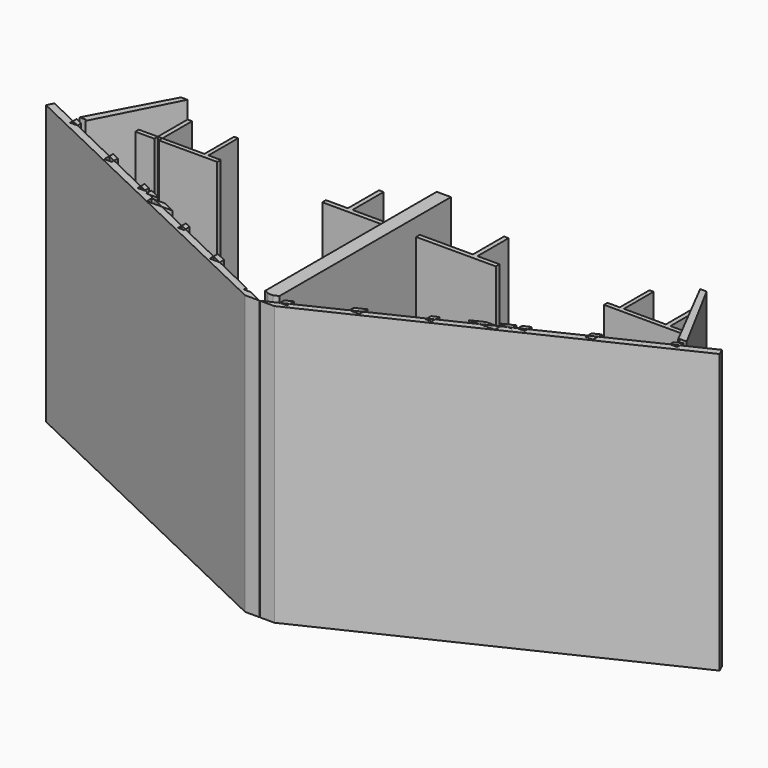
from build123d import *

# Parameters (mm, degrees)
F1_DEPTH = 4064
F2_DEPTH = 4064
F0_W     = 59.5169067383
F0_H     = 541.5135305497
F3_DEPTH = 3810
F0_W_2   = 277.9643576491
F0_H_2   = 63.521178427
F0_W_3   = 66.2975651105
F0_W_4   = 66.9565200806
F0_H_3   = 567.8366422653
F4_DEPTH = 127
F0_W_5   = 900
F0_H_4   = 1900
F0_W_6   = 276.364163372
F0_H_5   = 85.8635625489
F5_DEPTH = 50.8
F0_W_7   = 421.6983612932
F0_H_6   = 1206.2521257751
F6_DEPTH = 76.2
F0_W_8   = 612.8193992297
F0_W_9   = 773.7193927169


with BuildPart() as f1:
    # F0 (on Top) → F1 (new body)
    with BuildSketch(Plane.XY):
        Polygon((-4017.2446778875, -541.5135305498), (-3739.2803202383, 0), (-3833.7243567221, 0), (-4427.8527467492, -1105.8727394146), (-4320.6527595298, -1105.8727394146), (-4320.6527595298, -1132.5950018471), align=None)
    extrude(amount=F1_DEPTH)



with BuildPart() as f1b:
    # F0 (on Top) → F1, piece 2 (new body)
    with BuildSketch(Plane.XY):
        Polygon((-1850.4004250281, -2466.7582425606), (-2317.8460123625, -2241.7488098145), (-2539.3906603567, -2241.7488098145), (-2539.3906603567, -2155.8852472656), (-2496.2231716506, -2155.8852472656), (-2615.9710052476, -2098.2434749603), (-2664.0718947165, -2098.2434749603), (-2664.0718947165, -2075.0896488312), (-2722.1911917441, -2047.1133657939), (-2722.1911917441, -2054.6538829803), (-2823.9000807516, -2054.6538829803), (-2823.9000807516, -1998.1548130962), (-3455.948210787, -1693.9123620796), (-3455.948210787, -1734.9972724915), (-3564.9219523184, -1734.9972724915), (-3564.9219523184, -1641.4568026934), (-4320.6527595298, -1277.6785045409), (-4427.8527467492, -1277.6785045409), (-4427.8527467492, -1226.0767588657), (-4867.9884443991, -1014.2132043838), (-4912.6261244528, -1110.9281778336), (-215.7927225342, -3355.0751209258), (-4.9675474875, -3355.0751209259), (-215.7927225342, -3253.5923936711), (-317.8846821116, -3253.5923936711), (-317.8846821116, -3204.4494462674), (-947.8856273576, -2901.1924273539), (-1095.0394922864, -2901.1924273539), (-1095.0394922864, -2830.358498077), (-1763.2213602774, -2508.722724499), (-1763.2213602774, -2534.138917923), (-1850.4004250281, -2534.138917923), align=None)
    extrude(amount=F1_DEPTH)


with BuildPart() as f1c:
    # F0 (on Top) → F1, piece 3 (new body)
    with BuildSketch(Plane.XY):
        Polygon((2534.4231128693, -2241.7488098145), (2312.8784648751, -2241.7488098145), (1845.4328775406, -2466.7582425606), (1845.4328775406, -2534.138917923), (1758.2538127899, -2534.138917923), (1758.2538127899, -2508.722724499), (1090.0719447989, -2830.358498077), (1090.0719447989, -2901.1924273539), (942.9180798701, -2901.1924273539), (312.9171346241, -3204.4494462675), (312.9171346241, -3253.5923936711), (210.8251750468, -3253.5923936711), (0, -3355.0751209258), (210.8251750468, -3355.0751209259), (4907.6585769653, -1110.9281778336), (4863.0208969117, -1014.2132043838), (4422.8851992618, -1226.0767588657), (4422.8851992618, -1277.6785045409), (4315.6852120423, -1277.6785045409), (3559.9544048309, -1641.4568026935), (3559.9544048309, -1734.9972724915), (3450.9806632996, -1734.9972724915), (3450.9806632996, -1693.9123620796), (2818.9325332642, -1998.1548130962), (2818.9325332642, -2054.6538829803), (2717.2236442566, -2054.6538829803), (2717.2236442566, -2047.1133657939), (2659.104347229, -2075.0896488312), (2659.104347229, -2098.2434749603), (2611.0034577601, -2098.2434749603), (2491.2556241632, -2155.8852472656), (2534.4231128693, -2155.8852472656), align=None)
    extrude(amount=F1_DEPTH)


with BuildPart() as f1d:
    # F0 (on Top) → F1, piece 4 (new body)
    with BuildSketch(Plane.XY):
        Polygon((3828.7568092346, 0), (3734.3127727509, 0), (4012.2771304, -541.5135305497), (4315.6852120423, -1132.595001847), (4315.6852120423, -1105.8727394146), (4422.8851992618, -1105.8727394146), align=None)
    extrude(amount=F1_DEPTH)

    # F0 (on Top) → F3, piece 4 (join)
    with BuildSketch(Plane.XY):
        with Locations((3025.4373550415, -270.7567652749)):
            Rectangle(F0_W, F0_H)
        Polygon((3055.1958084106, -541.5135305497), (2995.6789016724, -541.5135305497), (2817.1281814575, -541.5135305497), (2817.1281814575, -605.0347089767), (3668.0152076403, -605.0347089767), (3668.0152076403, -541.5135305497), align=None)
        with Locations((3873.2949515754, -573.2741197632)):
            Rectangle(F0_W_2, F0_H_2)
        with Locations((3701.1639901956, -573.2741197632)):
            Rectangle(F0_W_3, F0_H_2)
        with Locations((3701.1639901956, -270.7567652749)):
            Rectangle(F0_W_3, F0_H)
    extrude(amount=F3_DEPTH)


with BuildPart() as f1e:
    # F0 (on Top) → F1, piece 5 (new body)
    with BuildSketch(Plane.XY):
        Polygon((-2.4837737437, -3156.8207740784), (-2.4837737437, 0), (-4.9675474875, 0), (-106.6383267753, 0), (-106.6383267753, -567.8366422653), (-106.6383267753, -634.7931027412), (-106.6383267753, -2155.8852472656), (-106.6383267753, -2241.7488098145), (-106.6383267753, -3124.3838306734), (-37.7133525912, -3156.8207740784), align=None)
        Polygon((101.6707792878, 0), (0, 0), (-2.4837737437, 0), (-2.4837737437, -3156.8207740784), (32.7458051037, -3156.8207740784), (101.6707792878, -3124.3838306734), (101.6707792878, -2241.7488098145), (101.6707792878, -2155.8852472656), (101.6707792878, -634.7931027412), (101.6707792878, -567.8366422653), align=None)
    extrude(amount=F1_DEPTH)

    # F0 (on Top) → F3, piece 3 (join)
    with BuildSketch(Plane.XY):
        Polygon((-106.6383267753, -634.7931027412), (-106.6383267753, -567.8366422653), (-880.3577194922, -567.8366422653), (-947.3142395727, -567.8366422653), (-1267.2173748724, -567.8366422653), (-1267.2173748724, -634.7931027412), align=None)
        Polygon((875.3901720047, -567.8366422653), (101.6707792878, -567.8366422653), (101.6707792878, -634.7931027412), (1262.2498273849, -634.7931027412), (1262.2498273849, -567.8366422653), (942.3466920853, -567.8366422653), align=None)
        with Locations((908.868432045, -283.9183211327)):
            Rectangle(F0_W_4, F0_H_3)
        with Locations((-913.8359795325, -283.9183211327)):
            Rectangle(F0_W_4, F0_H_3)
    extrude(amount=F3_DEPTH)


with BuildPart() as f2:
    # F0 (on Top) → F2 (new body)
    with BuildSketch(Plane.XY):
        Polygon((312.9171346241, -3124.728049525), (210.8251750467, -3173.5407701096), (210.8251750467, -3253.5923936711), (312.9171346241, -3204.4494462675), align=None)
    extrude(amount=F2_DEPTH)


with BuildPart() as f2b:
    # F0 (on Top) → F2, piece 2 (new body)
    with BuildSketch(Plane.XY):
        Polygon((1090.0719447989, -2753.1508875518), (942.9180798701, -2823.5088326971), (942.9180798701, -2901.1924273539), (1090.0719447989, -2830.358498077), align=None)
    extrude(amount=F2_DEPTH)


with BuildPart() as f2c:
    # F0 (on Top) → F2, piece 3 (new body)
    with BuildSketch(Plane.XY):
        Polygon((1845.4328775406, -2466.7582425606), (1845.4328775406, -2391.9939237413), (1758.2538127899, -2433.6764161346), (1758.2538127899, -2508.722724499), align=None)
    extrude(amount=F2_DEPTH)


with BuildPart() as f2d:
    # F0 (on Top) → F2, piece 4 (new body)
    with BuildSketch(Plane.XY):
        Polygon((2339.2549215885, -2155.8852472656), (2159.6710087903, -2241.7488098145), (2312.8784648751, -2241.7488098145), (2491.2556241632, -2155.8852472656), align=None)
    extrude(amount=F2_DEPTH)


with BuildPart() as f2e:
    # F0 (on Top) → F2, piece 5 (new body)
    with BuildSketch(Plane.XY):
        Polygon((2818.9325332642, -1926.539377852), (2717.2236442566, -1975.1689428114), (2717.2236442566, -2047.1133657939), (2818.9325332642, -1998.1548130962), align=None)
    extrude(amount=F2_DEPTH)


with BuildPart() as f2f:
    # F0 (on Top) → F2, piece 6 (new body)
    with BuildSketch(Plane.XY):
        Polygon((3559.9544048309, -1572.2382780044), (3450.9806632996, -1624.3413507483), (3450.9806632996, -1693.9123620796), (3559.9544048309, -1641.4568026935), align=None)
    extrude(amount=F2_DEPTH)


with BuildPart() as f2g:
    # F0 (on Top) → F2, piece 7 (new body)
    with BuildSketch(Plane.XY):
        Polygon((4422.8851992618, -1159.6494715326), (4315.6852120423, -1210.9044679543), (4315.6852120423, -1277.6785045409), (4422.8851992618, -1226.0767588657), align=None)
    extrude(amount=F2_DEPTH)


with BuildPart() as f2h:
    # F0 (on Top) → F2, piece 8 (new body)
    with BuildSketch(Plane.XY):
        Polygon((-947.8856273576, -2901.1924273539), (-947.8856273576, -2823.5088326971), (-1095.0394922864, -2753.1508875518), (-1095.0394922864, -2830.358498077), align=None)
    extrude(amount=F2_DEPTH)


with BuildPart() as f2i:
    # F0 (on Top) → F2, piece 9 (new body)
    with BuildSketch(Plane.XY):
        Polygon((-1763.2213602774, -2433.6764161346), (-1850.4004250281, -2391.9939237413), (-1850.4004250281, -2466.7582425606), (-1763.2213602774, -2508.722724499), align=None)
    extrude(amount=F2_DEPTH)


with BuildPart() as f2j:
    # F0 (on Top) → F2, piece 10 (new body)
    with BuildSketch(Plane.XY):
        Polygon((-2317.8460123625, -2241.7488098145), (-2164.6385562777, -2241.7488098145), (-2344.222469076, -2155.8852472656), (-2496.2231716506, -2155.8852472656), align=None)
    extrude(amount=F2_DEPTH)


with BuildPart() as f2k:
    # F0 (on Top) → F2, piece 11 (new body)
    with BuildSketch(Plane.XY):
        Polygon((-2722.1911917441, -2047.1133657939), (-2722.1911917441, -1975.1689428114), (-2823.9000807516, -1926.539377852), (-2823.9000807516, -1998.1548130962), align=None)
    extrude(amount=F2_DEPTH)


with BuildPart() as f2l:
    # F0 (on Top) → F2, piece 12 (new body)
    with BuildSketch(Plane.XY):
        Polygon((-2489.7135267965, -2098.2434749603), (-2489.7135267965, -2086.3223318561), (-2664.0718947165, -2002.9572330756), (-2664.0718947165, -2075.0896488312), (-2615.9710052476, -2098.2434749603), align=None)
    extrude(amount=F2_DEPTH)


with BuildPart() as f2m:
    # F0 (on Top) → F2, piece 13 (new body)
    with BuildSketch(Plane.XY):
        Polygon((2659.104347229, -2002.9572330756), (2484.7459793091, -2086.3223318561), (2484.7459793091, -2098.2434749603), (2611.0034577601, -2098.2434749603), (2659.104347229, -2075.0896488312), align=None)
    extrude(amount=F2_DEPTH)


with BuildPart() as f2n:
    # F0 (on Top) → F2, piece 14 (new body)
    with BuildSketch(Plane.XY):
        Polygon((-3455.948210787, -1693.9123620796), (-3455.948210787, -1624.3413507483), (-3564.9219523184, -1572.2382780044), (-3564.9219523184, -1641.4568026934), align=None)
    extrude(amount=F2_DEPTH)


with BuildPart() as f2o:
    # F0 (on Top) → F2, piece 15 (new body)
    with BuildSketch(Plane.XY):
        Polygon((-4320.6527595298, -1277.6785045409), (-4320.6527595298, -1210.9044679543), (-4427.8527467492, -1159.6494715326), (-4427.8527467492, -1226.0767588657), align=None)
    extrude(amount=F2_DEPTH)


with BuildPart() as f3:
    # F0 (on Top) → F3 (new body)
    with BuildSketch(Plane.XY):
        Polygon((-2822.095728945, -541.5135305497), (-3000.6464491598, -541.5135305497), (-3060.1633558981, -541.5135305497), (-3672.9827551278, -541.5135305497), (-3672.9827551278, -605.0347089767), (-2822.095728945, -605.0347089767), align=None)
        with Locations((-3030.404902529, -270.7567652749)):
            Rectangle(F0_W, F0_H)
    extrude(amount=F3_DEPTH)


with BuildPart() as f1_1:
    add(f1.part)

    add(f3.part)  # F3#2 merges F3
    # F0 (on Top) → F3, piece 2 (join)
    with BuildSketch(Plane.XY):
        with Locations((-3878.2624990629, -573.2741197632)):
            Rectangle(F0_W_2, F0_H_2)
        with Locations((-3706.1315376831, -270.7567652749)):
            Rectangle(F0_W_3, F0_H)
    extrude(amount=F3_DEPTH)


with BuildPart() as f4:
    # F0 (on Top) → F4 (new body)
    with BuildSketch(Plane.XY):
        Polygon((2659.104347229, 0), (2484.7459793091, 0), (2484.7459793091, -2002.8792337131), (2659.104347229, -1920.8240341378), (2659.104347229, -1654.9284700991), (2659.104347229, -959.8524570465), align=None)
        Polygon((101.6707792878, -3156.8207740784), (32.7458051037, -3156.8207740784), (0, -3172.2313540528), (12.3954769224, -3268.4149742126), (210.8251750467, -3173.5407701096), (210.8251750467, -3124.728049525), (312.9171346241, -3124.728049525), (942.9180798701, -2823.5088326971), (942.9180798701, -2753.1508875518), (1090.0719447989, -2753.1508875518), (1758.2538127899, -2433.6764161346), (1758.2538127899, -2381.5755844116), (1845.4328775406, -2381.5755844116), (1845.4328775406, -2391.9939237413), (2159.6710087903, -2241.7488098145), (1977.1741295017, -2241.7488098145), (101.6707792878, -3124.3838306734), align=None)
        Polygon((2484.7459793091, -2002.8792337131), (2159.6248542248, -2155.8852472656), (2339.2549215885, -2155.8852472656), (2484.7459793091, -2086.3223318561), align=None)
        Polygon((3450.9806632996, -1548.1572678146), (2659.104347229, -1920.8240341378), (2659.104347229, -2002.9572330756), (2717.2236442566, -1975.1689428114), (2717.2236442566, -1909.3554019928), (2818.9325332642, -1909.3554019928), (2818.9325332642, -1926.539377852), (3450.9806632996, -1624.3413507483), align=None)
        Polygon((3668.0152076403, -1446.0181329794), (3486.20662726, -1531.5794944763), (3559.9544048309, -1531.5794944763), (3559.9544048309, -1572.2382780044), (4315.6852120423, -1210.9044679543), (4315.6852120423, -1141.2166364745), (3734.3127727509, -1414.8176807074), (3734.3127727509, -1446.0181329794), align=None)
        Polygon((2659.104347229, -1920.8240341378), (2484.7459793091, -2002.8792337131), (2484.7459793091, -2086.3223318561), (2659.104347229, -2002.9572330756), align=None)
        Polygon((3486.20662726, -1531.5794944763), (3450.9806632996, -1548.1572678146), (3450.9806632996, -1624.3413507483), (3559.9544048309, -1572.2382780044), (3559.9544048309, -1531.5794944763), align=None)
        Polygon((4773.7455368042, -991.894364357), (4422.8851992618, -1105.8727394146), (4422.8851992618, -1159.6494715326), align=None)
        Polygon((4315.6852120423, -1141.2166364745), (4315.6852120423, -1210.9044679543), (4422.8851992618, -1159.6494715326), (4422.8851992618, -1105.8727394146), (4319.2497084495, -1139.5391404784), align=None)
        Polygon((2159.6248542248, -2155.8852472656), (1977.1741295017, -2241.7488098145), (2159.6710087903, -2241.7488098145), (2339.2549215885, -2155.8852472656), align=None)
    extrude(amount=F4_DEPTH)


with BuildPart() as f4b:
    # F0 (on Top) → F4, piece 2 (new body)
    with BuildSketch(Plane.XY):
        with Locations((1828.6262075088, -950)):
            Rectangle(F0_W_5, F0_H_4)
    extrude(amount=F4_DEPTH)


with BuildPart() as f4c:
    # F0 (on Top) → F4, piece 3 (new body)
    with BuildSketch(Plane.XY):
        with Locations((239.8528609738, -2198.81702854)):
            Rectangle(F0_W_6, F0_H_5)
    extrude(amount=F4_DEPTH)


with BuildPart() as f4d:
    # F0 (on Top) → F4, piece 4 (new body)
    with BuildSketch(Plane.XY):
        Polygon((-2664.0718947165, -2002.9572330756), (-2664.0718947165, -1920.8240341378), (-3455.948210787, -1548.1572678146), (-3455.948210787, -1624.3413507483), (-2823.9000807516, -1926.539377852), (-2823.9000807516, -1909.3554019928), (-2722.1911917441, -1909.3554019928), (-2722.1911917441, -1975.1689428114), align=None)
        Polygon((-4.9675474875, -3172.2313540528), (-37.7133525912, -3156.8207740784), (-106.6383267753, -3156.8207740784), (-106.6383267753, -3124.3838306734), (-1982.1416769891, -2241.7488098145), (-2164.6385562777, -2241.7488098145), (-1850.4004250281, -2391.9939237413), (-1850.4004250281, -2381.5755844116), (-1763.2213602774, -2381.5755844116), (-1763.2213602774, -2433.6764161346), (-1095.0394922864, -2753.1508875518), (-947.8856273576, -2753.1508875518), (-947.8856273576, -2823.5088326971), (-317.8846821116, -3124.728049525), (-215.7927225342, -3124.728049525), (-215.7927225342, -3173.5407701096), (-17.3630244099, -3268.4149742126), align=None)
        Polygon((-2344.222469076, -2155.8852472656), (-2164.5924017122, -2155.8852472656), (-2489.7135267965, -2002.8792337131), (-2489.7135267965, -2086.3223318561), align=None)
        Polygon((-2489.7135267965, -2086.3223318561), (-2489.7135267965, -2002.8792337131), (-2664.0718947165, -1920.8240341378), (-2664.0718947165, -2002.9572330756), align=None)
        Polygon((-2823.9000807516, -1926.539377852), (-2722.1911917441, -1975.1689428114), (-2722.1911917441, -1909.3554019928), (-2823.9000807516, -1909.3554019928), align=None)
        Polygon((-2164.6385562777, -2241.7488098145), (-1982.1416769891, -2241.7488098145), (-2164.5924017122, -2155.8852472656), (-2344.222469076, -2155.8852472656), align=None)
        Polygon((-4427.8527467492, -1159.6494715326), (-4320.6527595298, -1210.9044679543), (-4320.6527595298, -1141.2166364745), (-4324.217255937, -1139.5391404784), (-4427.8527467492, -1105.8727394146), align=None)
        Polygon((-3564.9219523184, -1531.5794944763), (-3491.1741747474, -1531.5794944763), (-3672.9827551278, -1446.0181329794), (-3739.2803202383, -1446.0181329794), (-3739.2803202383, -1414.8176807074), (-4320.6527595298, -1141.2166364745), (-4320.6527595298, -1210.9044679543), (-3564.9219523184, -1572.2382780044), align=None)
        Polygon((-4778.7130842917, -991.894364357), (-4427.8527467492, -1159.6494715326), (-4427.8527467492, -1105.8727394146), align=None)
        Polygon((-3455.948210787, -1624.3413507483), (-3455.948210787, -1548.1572678146), (-3491.1741747474, -1531.5794944763), (-3564.9219523184, -1531.5794944763), (-3564.9219523184, -1572.2382780044), align=None)
        Polygon((-2664.0718947165, -1920.8240341378), (-2489.7135267965, -2002.8792337131), (-2489.7135267965, 0), (-2664.0718947165, 0), (-2664.0718947165, -959.8524570465), (-2664.0718947165, -1654.9284700991), align=None)
    extrude(amount=F4_DEPTH)


with BuildPart() as f4e:
    # F0 (on Top) → F4, piece 5 (new body)
    with BuildSketch(Plane.XY):
        with Locations((-1833.5937549962, -950)):
            Rectangle(F0_W_5, F0_H_4)
    extrude(amount=F4_DEPTH)


with BuildPart() as f4f:
    # F0 (on Top) → F4, piece 6 (new body)
    with BuildSketch(Plane.XY):
        Polygon((-3739.2803202383, -1414.8176807074), (-3672.9827551278, -1446.0181329794), (-3672.9827551278, -605.0347089767), (-3739.2803202383, -605.0347089767), align=None)
    extrude(amount=F4_DEPTH)


with BuildPart() as f4g:
    # F0 (on Top) → F4, piece 7 (new body)
    with BuildSketch(Plane.XY):
        Polygon((3668.0152076403, -605.0347089767), (3668.0152076403, -1446.0181329794), (3734.3127727509, -1414.8176807074), (3734.3127727509, -605.0347089767), align=None)
    extrude(amount=F4_DEPTH)


with BuildPart() as f4h:
    # F0 (on Top) → F4, piece 8 (new body)
    with BuildSketch(Plane.XY):
        with Locations((-244.8204084613, -2198.81702854)):
            Rectangle(F0_W_6, F0_H_5)
    extrude(amount=F4_DEPTH)


with BuildPart() as f4i:
    # F0 (on Top) → F4, piece 9 (new body)
    with BuildSketch(Plane.XY):
        Polygon((2491.2556241632, -2155.8852472656), (2312.8784648751, -2241.7488098145), (2534.4231128693, -2241.7488098145), (2534.4231128693, -2155.8852472656), align=None)
    extrude(amount=F4_DEPTH)


with BuildPart() as f4j:
    # F0 (on Top) → F4, piece 10 (new body)
    with BuildSketch(Plane.XY):
        Polygon((-2539.3906603567, -2241.7488098145), (-2317.8460123625, -2241.7488098145), (-2496.2231716506, -2155.8852472656), (-2539.3906603567, -2155.8852472656), align=None)
    extrude(amount=F4_DEPTH)


with BuildPart() as f5:
    # F0 (on Top) → F5 (new body)
    with BuildSketch(Plane.XY):
        Polygon((-3492.3832416534, -1256.2128305435), (-2664.0718947165, -1654.9284700991), (-2664.0718947165, -959.8524570465), (-3492.3832416534, -959.8524570465), align=None)
    extrude(amount=F5_DEPTH)


with BuildPart() as f5b:
    # F0 (on Top) → F5, piece 2 (new body)
    with BuildSketch(Plane.XY):
        with Locations((-593.8516707938, -1552.759184378)):
            Rectangle(F0_W_7, F0_H_6)
        with Locations((-593.8516707938, -2198.81702854)):
            Rectangle(F0_W_7, F0_H_5)
        Polygon((-383.0024901473, -2677.7754532338), (-383.0024901473, -2241.7488098145), (-804.7008514404, -2241.7488098145), (-804.7008514404, -2476.2879812667), align=None)
    extrude(amount=F5_DEPTH)


with BuildPart() as f5c:
    # F0 (on Top) → F5, piece 3 (new body)
    with BuildSketch(Plane.XY):
        Polygon((799.733303953, -2241.7488098145), (378.0349426598, -2241.7488098145), (378.0349426598, -2677.7754532338), (799.733303953, -2476.2879812667), align=None)
        with Locations((588.8841233064, -2198.81702854)):
            Rectangle(F0_W_7, F0_H_5)
        with Locations((588.8841233064, -1552.759184378)):
            Rectangle(F0_W_7, F0_H_6)
    extrude(amount=F5_DEPTH)


with BuildPart() as f5d:
    # F0 (on Top) → F5, piece 4 (new body)
    with BuildSketch(Plane.XY):
        Polygon((3487.415694166, -959.8524570465), (2659.104347229, -959.8524570465), (2659.104347229, -1654.9284700991), (3487.415694166, -1256.2128305435), align=None)
    extrude(amount=F5_DEPTH)


with BuildPart() as f6:
    # F0 (on Top) → F6 (new body)
    with BuildSketch(Plane.XY):
        Polygon((-4320.6527595298, -1141.2166364745), (-3739.2803202383, -1414.8176807074), (-3739.2803202383, -605.0347089767), (-4017.2446778875, -605.0347089767), (-4017.2446778875, -541.5135305497), (-4320.6527595298, -1132.5950018471), align=None)
    extrude(amount=F6_DEPTH)


with BuildPart() as f6b:
    # F0 (on Top) → F6, piece 2 (new body)
    with BuildSketch(Plane.XY):
        Polygon((-3739.2803202383, -541.5135305497), (-3739.2803202383, 0), (-4017.2446778875, -541.5135305498), align=None)
    extrude(amount=F6_DEPTH)


with BuildPart() as f6c:
    # F0 (on Top) → F6, piece 3 (new body)
    with BuildSketch(Plane.XY):
        with Locations((-3366.573055513, -270.7567652749)):
            Rectangle(F0_W_8, F0_H)
    extrude(amount=F6_DEPTH)


with BuildPart() as f6d:
    # F0 (on Top) → F6, piece 4 (new body)
    with BuildSketch(Plane.XY):
        Polygon((-3455.948210787, -1548.1572678146), (-2664.0718947165, -1920.8240341378), (-2664.0718947165, -1654.9284700991), (-3492.3832416534, -1256.2128305435), (-3492.3832416534, -959.8524570465), (-2664.0718947165, -959.8524570465), (-2664.0718947165, 0), (-3000.6464491598, 0), (-3000.6464491598, -541.5135305497), (-2822.095728945, -541.5135305497), (-2822.095728945, -605.0347089767), (-3672.9827551278, -605.0347089767), (-3672.9827551278, -1446.0181329794), (-3491.1741747474, -1531.5794944763), (-3455.948210787, -1531.5794944763), align=None)
    extrude(amount=F6_DEPTH)


with BuildPart() as f6e:
    # F0 (on Top) → F6, piece 5 (new body)
    with BuildSketch(Plane.XY):
        Polygon((-106.6383267753, -2155.8852472656), (-106.6383267753, -634.7931027412), (-1267.2173748724, -634.7931027412), (-1267.2173748724, -567.8366422653), (-947.3142395727, -567.8366422653), (-947.3142395727, 0), (-1383.5937549962, 0), (-1383.5937549962, -1900), (-2283.5937549962, -1900), (-2283.5937549962, 0), (-2489.7135267965, 0), (-2489.7135267965, -2002.8792337131), (-2164.5924017122, -2155.8852472656), (-804.7008514404, -2155.8852472656), (-804.7008514404, -949.6331214905), (-383.0024901473, -949.6331214905), (-383.0024901473, -2155.8852472656), align=None)
        Polygon((-106.6383267753, -2155.8852472656), (-106.6383267753, -634.7931027412), (-1267.2173748724, -634.7931027412), (-1267.2173748724, -567.8366422653), (-947.3142395727, -567.8366422653), (-947.3142395727, 0), (-1383.5937549962, 0), (-1383.5937549962, -1900), (-2283.5937549962, -1900), (-2283.5937549962, 0), (-2489.7135267965, 0), (-2489.7135267965, -2002.8792337131), (-2164.5924017122, -2155.8852472656), (-804.7008514404, -2155.8852472656), (-804.7008514404, -949.6331214905), (-383.0024901473, -949.6331214905), (-383.0024901473, -2155.8852472656), align=None)
    extrude(amount=F6_DEPTH)


with BuildPart() as f6f:
    # F0 (on Top) → F6, piece 6 (new body)
    with BuildSketch(Plane.XY):
        Polygon((-1982.1416769891, -2241.7488098145), (-106.6383267753, -3124.3838306734), (-106.6383267753, -2241.7488098145), (-383.0024901473, -2241.7488098145), (-383.0024901473, -2677.7754532338), (-804.7008514404, -2476.2879812667), (-804.7008514404, -2241.7488098145), align=None)
    extrude(amount=F6_DEPTH)


with BuildPart() as f6g:
    # F0 (on Top) → F6, piece 7 (new body)
    with BuildSketch(Plane.XY):
        Polygon((101.6707792878, -2241.7488098145), (101.6707792878, -3124.3838306734), (1977.1741295017, -2241.7488098145), (799.733303953, -2241.7488098145), (799.733303953, -2476.2879812667), (378.0349426598, -2677.7754532338), (378.0349426598, -2241.7488098145), align=None)
    extrude(amount=F6_DEPTH)


with BuildPart() as f6h:
    # F0 (on Top) → F6, piece 8 (new body)
    with BuildSketch(Plane.XY):
        Polygon((1378.6262075088, 0), (942.3466920853, 0), (942.3466920853, -567.8366422653), (1262.2498273849, -567.8366422653), (1262.2498273849, -634.7931027412), (101.6707792878, -634.7931027412), (101.6707792878, -2155.8852472656), (378.0349426598, -2155.8852472656), (378.0349426598, -949.6331214905), (799.733303953, -949.6331214905), (799.733303953, -2155.8852472656), (2159.6248542248, -2155.8852472656), (2484.7459793091, -2002.8792337131), (2484.7459793091, 0), (2278.6262075088, 0), (2278.6262075088, -1900), (1378.6262075088, -1900), align=None)
        Polygon((1378.6262075088, 0), (942.3466920853, 0), (942.3466920853, -567.8366422653), (1262.2498273849, -567.8366422653), (1262.2498273849, -634.7931027412), (101.6707792878, -634.7931027412), (101.6707792878, -2155.8852472656), (378.0349426598, -2155.8852472656), (378.0349426598, -949.6331214905), (799.733303953, -949.6331214905), (799.733303953, -2155.8852472656), (2159.6248542248, -2155.8852472656), (2484.7459793091, -2002.8792337131), (2484.7459793091, 0), (2278.6262075088, 0), (2278.6262075088, -1900), (1378.6262075088, -1900), align=None)
    extrude(amount=F6_DEPTH)


with BuildPart() as f6i:
    # F0 (on Top) → F6, piece 9 (new body)
    with BuildSketch(Plane.XY):
        with Locations((488.5304756463, -283.9183211327)):
            Rectangle(F0_W_9, F0_H_3)
    extrude(amount=F6_DEPTH)


with BuildPart() as f6j:
    # F0 (on Top) → F6, piece 10 (new body)
    with BuildSketch(Plane.XY):
        with Locations((-493.4980231337, -283.9183211327)):
            Rectangle(F0_W_9, F0_H_3)
    extrude(amount=F6_DEPTH)


with BuildPart() as f6k:
    # F0 (on Top) → F6, piece 11 (new body)
    with BuildSketch(Plane.XY):
        Polygon((2995.6789016724, 0), (2659.104347229, 0), (2659.104347229, -959.8524570465), (3487.415694166, -959.8524570465), (3487.415694166, -1256.2128305435), (2659.104347229, -1654.9284700991), (2659.104347229, -1920.8240341378), (3450.9806632996, -1548.1572678146), (3450.9806632996, -1531.5794944763), (3486.20662726, -1531.5794944763), (3668.0152076403, -1446.0181329794), (3668.0152076403, -605.0347089767), (2817.1281814575, -605.0347089767), (2817.1281814575, -541.5135305497), (2995.6789016724, -541.5135305497), align=None)
    extrude(amount=F6_DEPTH)


with BuildPart() as f6l:
    # F0 (on Top) → F6, piece 12 (new body)
    with BuildSketch(Plane.XY):
        Polygon((4315.6852120423, -1132.595001847), (4012.2771304, -541.5135305497), (4012.2771304, -605.0347089767), (3734.3127727509, -605.0347089767), (3734.3127727509, -1414.8176807074), (4315.6852120423, -1141.2166364745), align=None)
    extrude(amount=F6_DEPTH)


with BuildPart() as f6m:
    # F0 (on Top) → F6, piece 13 (new body)
    with BuildSketch(Plane.XY):
        Polygon((4012.2771304, -541.5135305497), (3734.3127727509, 0), (3734.3127727509, -541.5135305497), align=None)
    extrude(amount=F6_DEPTH)


with BuildPart() as f6n:
    # F0 (on Top) → F6, piece 14 (new body)
    with BuildSketch(Plane.XY):
        with Locations((3361.6055080255, -270.7567652749)):
            Rectangle(F0_W_8, F0_H)
    extrude(amount=F6_DEPTH)


solid = Compound([f1b.part, f1c.part, f1d.part, f1e.part, f2.part, f2b.part, f2c.part, f2d.part, f2e.part, f2f.part, f2g.part, f2h.part, f2i.part, f2j.part, f2k.part, f2l.part, f2m.part, f2n.part, f2o.part, f1_1.part, f4.part, f4b.part, f4c.part, f4d.part, f4e.part, f4f.part, f4g.part, f4h.part, f4i.part, f4j.part, f5.part, f5b.part, f5c.part, f5d.part, f6.part, f6b.part, f6c.part, f6d.part, f6e.part, f6f.part, f6g.part, f6h.part, f6i.part, f6j.part, f6k.part, f6l.part, f6m.part, f6n.part])
